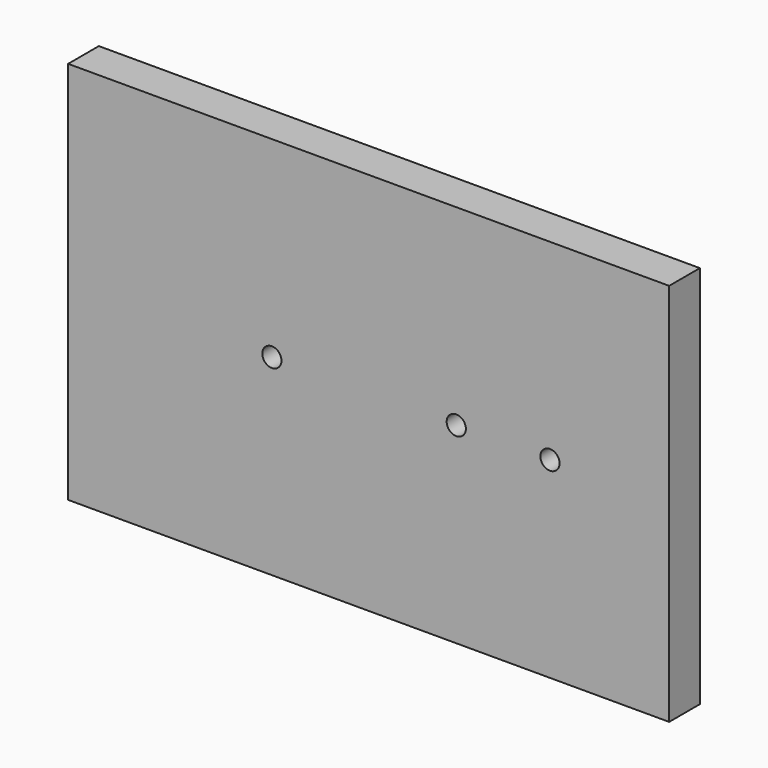
from build123d import *

# Parameters (mm, degrees)
F0_R     = 1.5875
F1_DEPTH = 6.35


with BuildPart() as f1:
    # F0 (on Front) → F1 (new body)
    with BuildSketch(Plane.XZ):
        Polygon((-68.094693, 31.75), (-68.094693, 0), (-68.094693, -31.75), (31.320907, -31.75), (31.320907, 31.75), align=None)
        with Locations((-34.394693, 0)):
            Circle(F0_R, mode=Mode.SUBTRACT)
        with Locations((-3.895093, 0)):
            Circle(F0_R, mode=Mode.SUBTRACT)
        with Locations((11.604507, 0)):
            Circle(F0_R, mode=Mode.SUBTRACT)
    extrude(amount=F1_DEPTH)


solid = f1.part
